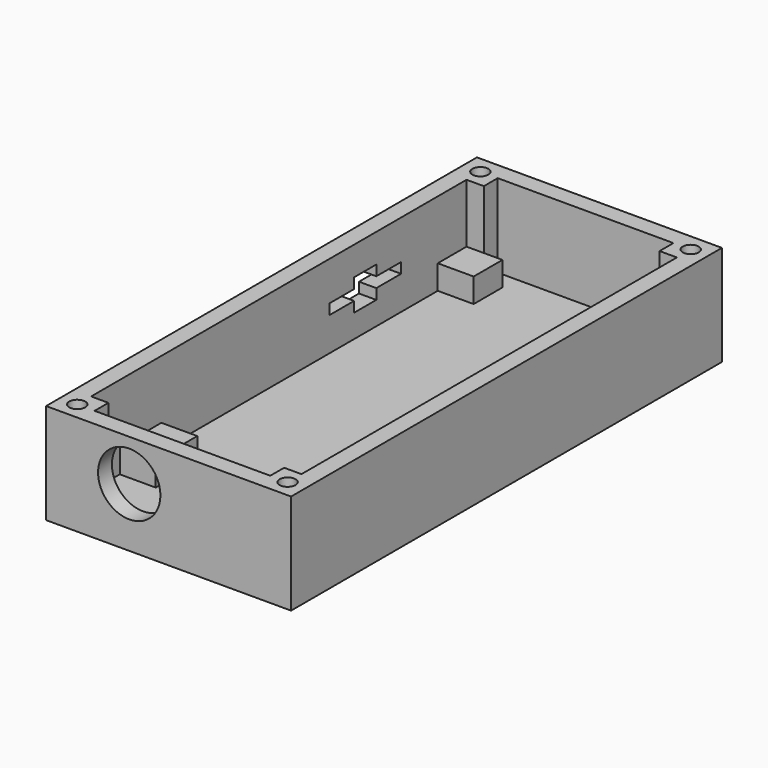
from build123d import *

# Parameters (mm, degrees)
SKETCH_W          = 35.3624
SKETCH_H          = 77.7328
PAD_DEPTH         = 8.5
PAD_DEPTH_BACK    = 6
SKETCH002_W       = 30.3624
SKETCH002_H       = 72.7328
POCKET_DEPTH      = 3.5
POCKET_DEPTH_BACK = 8.5
SKETCH003_W       = 5
SKETCH003_H       = 5
PAD001_DEPTH      = 8.5
PAD001_DEPTH_BACK = 3.5
SKETCH004_W       = 5.1844
SKETCH004_H       = 5.1948
SKETCH004_H_2     = 5
PAD002_DEPTH      = 3.5
SKETCH005_W       = 5.1844
SKETCH005_H       = 2.5
PAD003_DEPTH      = 1.6
PAD003_DEPTH_BACK = 3.5
SKETCH006_R       = 1.15
POCKET001_DEPTH   = 8
SKETCH007_R       = 4.5
POCKET002_DEPTH   = 2.5
POCKET003_DEPTH   = 2.5


with BuildPart() as part:
    # Sketch → Pad (new body, two sides)
    with BuildSketch(Plane.XY) as pad_sk:
        with Locations((14.6812, 25.8664)):
            Rectangle(SKETCH_W, SKETCH_H)
    extrude(amount=PAD_DEPTH)
    extrude(pad_sk.sketch, amount=-PAD_DEPTH_BACK)

    # Sketch002 → Pocket (cut, two sides)
    with BuildSketch(Plane.XY) as pocket_sk:
        with Locations((14.6812, 25.8664)):
            Rectangle(SKETCH002_W, SKETCH002_H)
    extrude(amount=-POCKET_DEPTH, mode=Mode.SUBTRACT)
    extrude(pocket_sk.sketch, amount=POCKET_DEPTH_BACK, mode=Mode.SUBTRACT)

    # Sketch003 → Pad001 (join, two sides)
    with BuildSketch(Plane.XY) as pad001_sk:
        with Locations((29.8624, -10.5)):
            Rectangle(SKETCH003_W, SKETCH003_H)
        with Locations((-0.5, -10.5)):
            Rectangle(SKETCH003_W, SKETCH003_H)
        with Locations((-0.5, 62.2328)):
            Rectangle(SKETCH003_W, SKETCH003_H)
        with Locations((29.8624, 62.2328)):
            Rectangle(SKETCH003_W, SKETCH003_H)
    extrude(amount=PAD001_DEPTH)
    extrude(pad001_sk.sketch, amount=-PAD001_DEPTH_BACK)

    # Sketch004 → Pad002 (join)
    with BuildSketch(Plane.XY):
        with Locations((2.0922, 57.1354)):
            Rectangle(SKETCH004_W, SKETCH004_H)
        with Locations((27.2702, 57.1354)):
            Rectangle(SKETCH004_W, SKETCH004_H)
        with Locations((2.0922, 2.174)):
            Rectangle(SKETCH004_W, SKETCH004_H_2)
        with Locations((27.2702, 2.174)):
            Rectangle(SKETCH004_W, SKETCH004_H_2)
    extrude(amount=-PAD002_DEPTH)

    # Sketch005 → Pad003 (join, two sides)
    with BuildSketch(Plane.XY) as pad003_sk:
        with Locations((27.2702, -1.576)):
            Rectangle(SKETCH005_W, SKETCH005_H)
        with Locations((2.0922, -1.576)):
            Rectangle(SKETCH005_W, SKETCH005_H)
    extrude(amount=PAD003_DEPTH)
    extrude(pad003_sk.sketch, amount=-PAD003_DEPTH_BACK)

    # Sketch006 (on DatumPlane) → Pocket001 (cut)
    with BuildSketch(Plane.XY.offset(8.5)):
        with Locations((29.8624, -10.5)):
            Circle(SKETCH006_R)
        with Locations((-0.5, -10.5)):
            Circle(SKETCH006_R)
        with Locations((29.8624, 62.2328)):
            Circle(SKETCH006_R)
        with Locations((-0.5, 62.2328)):
            Circle(SKETCH006_R)
    extrude(amount=-POCKET001_DEPTH, mode=Mode.SUBTRACT)

    # Sketch007 (on DatumPlane) → Pocket002 (cut)
    with BuildSketch(Plane.XZ.offset(13)):
        with Locations((9, 2.5)):
            Circle(SKETCH007_R)
    extrude(amount=-POCKET002_DEPTH, mode=Mode.SUBTRACT)

    # Sketch008 (on DatumPlane) → Pocket003 (cut)
    with BuildSketch(Plane(origin=(-3, 0, 0), x_dir=(0, -1, 0), z_dir=(-1, 0, 0))):
        Polygon((-47.9278, 2.85), (-43.4528, 2.85), (-43.4528, 4.35), (-39.4528, 4.35), (-39.4528, 2.85), (-34.9778, 2.85), (-34.9778, 1.35), (-39.4528, 1.35), (-39.4528, -0.15), (-43.4528, -0.15), (-43.4528, 1.35), (-47.9278, 1.35), align=None)
    extrude(amount=-POCKET003_DEPTH, mode=Mode.SUBTRACT)


solid = part.part
